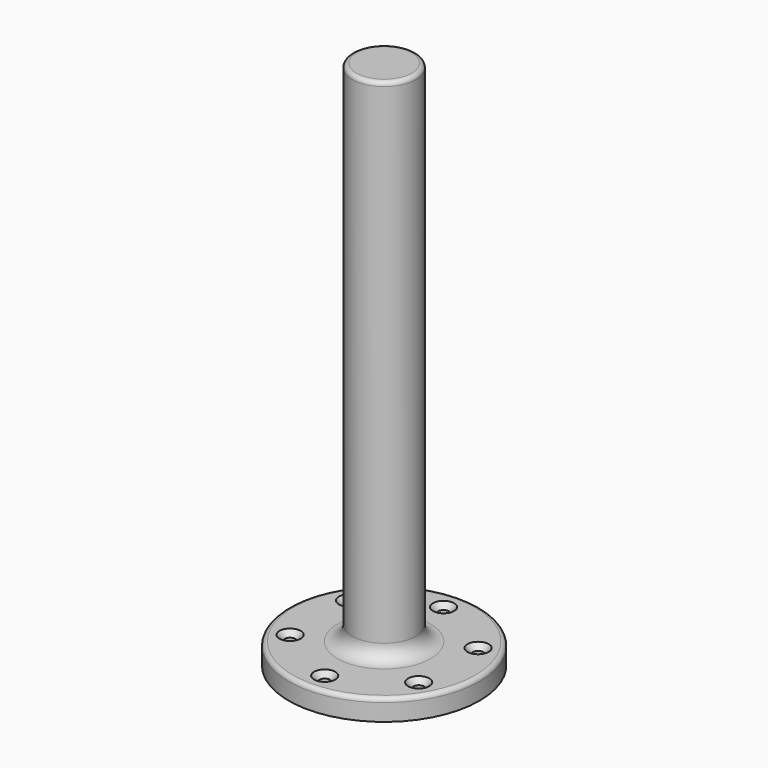
from build123d import *

# Parameters (mm, degrees)
F0_R           = 45
F1_DEPTH       = 10
F2_R           = 15
F3_DEPTH       = 250
F5_D           = 5
F5_CSINK_D     = 10
F5_CSINK_ANGLE = 90
F6_R           = 7
F7_R           = 2
F8_R           = 2


with BuildPart() as f1:
    # F0 (on Top) → F1 (new body)
    with BuildSketch(Plane.XY):
        Circle(F0_R)
    extrude(amount=F1_DEPTH)

    # F2 (on Top) → F3 (join)
    with BuildSketch(Plane.XY):
        Circle(F2_R)
    extrude(amount=F3_DEPTH)

    # F5 (through all)
    with Locations(Plane.XY.offset(10)):
        with Locations((0, 35), (-30.310889, 17.5), (-30.310889, -17.5), (0, -35), (30.310889, -17.5), (30.310889, 17.5)):
            CounterSinkHole(F5_D / 2, F5_CSINK_D / 2, counter_sink_angle=F5_CSINK_ANGLE)

    # F6
    f6_edges = [f1.edges().sort_by_distance(p)[0] for p in [
        (-15, 0, 10),
    ]]
    fillet(f6_edges, radius=F6_R)

    # F7
    f7_edges = [f1.edges().sort_by_distance(p)[0] for p in [
        (-15, 0, 250),
    ]]
    fillet(f7_edges, radius=F7_R)

    # F8
    f8_edges = [f1.edges().sort_by_distance(p)[0] for p in [
        (-45, 0, 10),
    ]]
    fillet(f8_edges, radius=F8_R)


solid = f1.part
